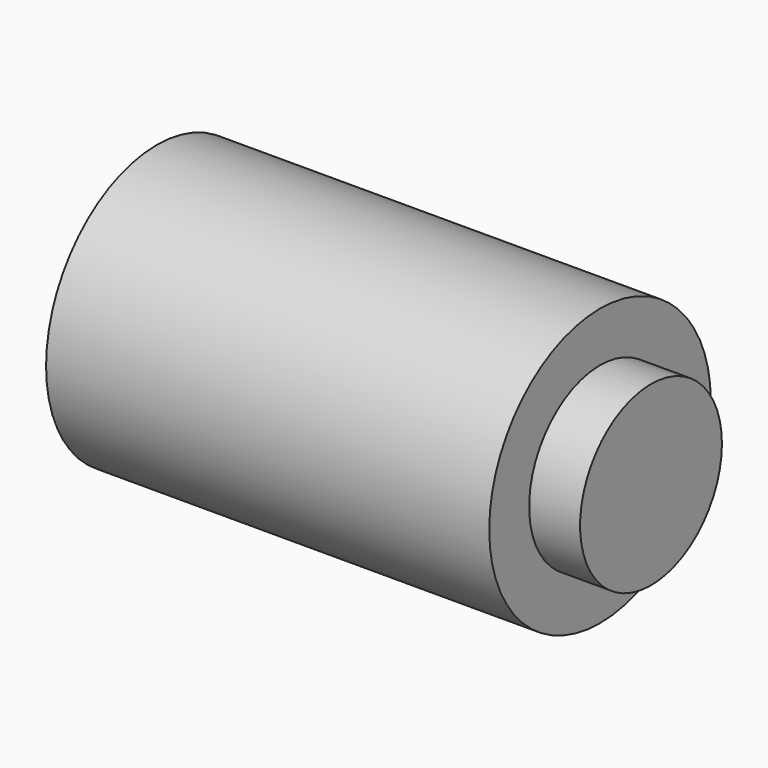
from build123d import *

# Parameters (mm, degrees)
F0_R     = 62.5
F0_R_2   = 40
F1_DEPTH = 200
F2_DEPTH = 23


with BuildPart() as f1:
    # F0 (on Right) → F1 (new body)
    with BuildSketch(Plane.YZ):
        Circle(F0_R)
        Circle(F0_R_2, mode=Mode.SUBTRACT)
        Circle(F0_R_2)
    extrude(amount=-F1_DEPTH)

    # F0 (on Right) → F2 (join)
    with BuildSketch(Plane.YZ):
        Circle(F0_R_2)
    extrude(amount=F2_DEPTH)


solid = f1.part
